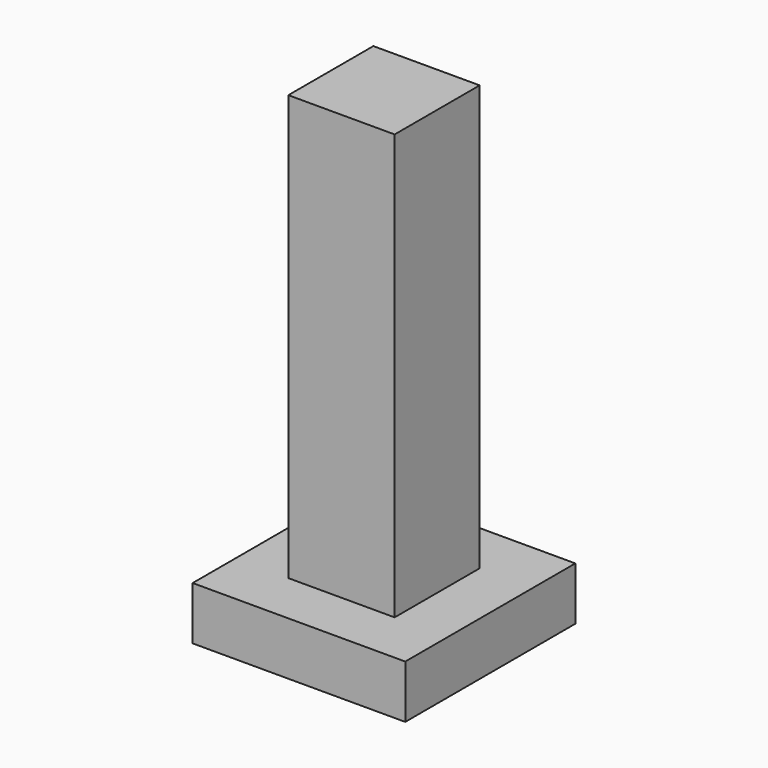
from build123d import *

# Parameters (mm, degrees)
F0_W     = 10
F0_H     = 10
F1_DEPTH = 40
F2_W     = 20
F2_H     = 20
F2_W_2   = 10
F2_H_2   = 10
F3_DEPTH = 5


with BuildPart() as f1:
    # F0 (on Top) → F1 (new body)
    with BuildSketch(Plane.XY):
        Rectangle(F0_W, F0_H)
    extrude(amount=F1_DEPTH)


with BuildPart() as f3:
    # F2 (on face) → F3 (new body)
    with BuildSketch(Plane.XY):
        Rectangle(F2_W, F2_H)
        Rectangle(F2_W_2, F2_H_2, mode=Mode.SUBTRACT)
    extrude(amount=-F3_DEPTH)


solid = Compound([f1.part, f3.part])
